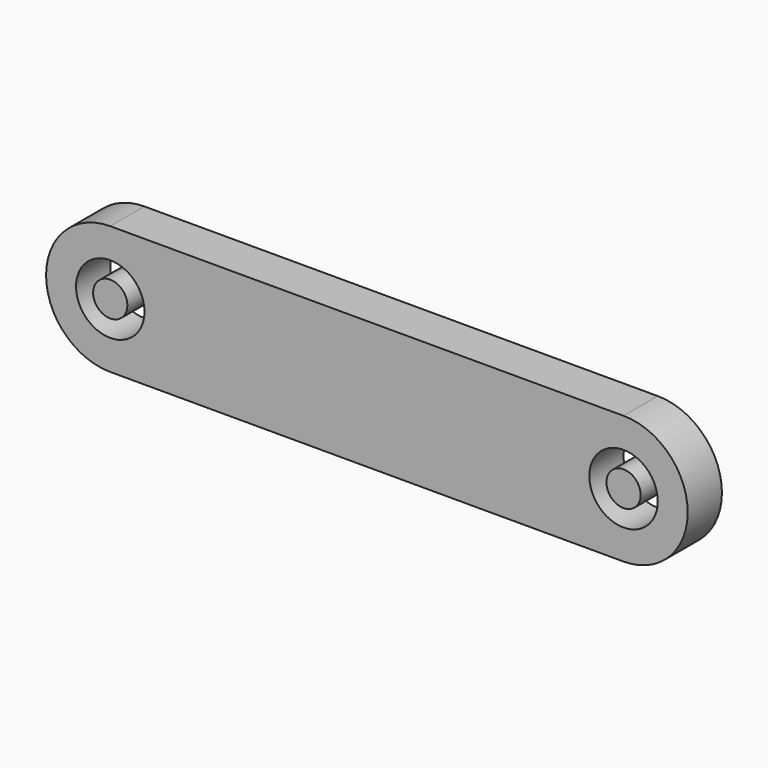
from build123d import *

# Parameters (mm, degrees)
F0_R     = 101.6
F0_R_2   = 50.8
F1_DEPTH = 63.5


with BuildPart() as f1:
    # F0 (on Front) → F1 (new body, symmetric)
    with BuildSketch(Plane.XZ):
        with BuildLine():
            ThreePointArc((761.997306, -190.5), (952.497306, -0.002694), (762.002694, 190.5))
            Line((762.002694, 190.5), (-761.997306, 190.5))
            ThreePointArc((-761.997306, 190.5), (-952.502694, 0.002694), (-762.002694, -190.5))
            Line((-762.002694, -190.5), (761.997306, -190.5))
        make_face()
        with Locations((-762.002694, 0)):
            Circle(F0_R, mode=Mode.SUBTRACT)
        with Locations((761.997306, 0)):
            Circle(F0_R, mode=Mode.SUBTRACT)
        with Locations((-762.002694, 0)):
            Circle(F0_R_2)
        with Locations((761.997306, 0)):
            Circle(F0_R_2)
    extrude(amount=F1_DEPTH, both=True)


solid = f1.part
